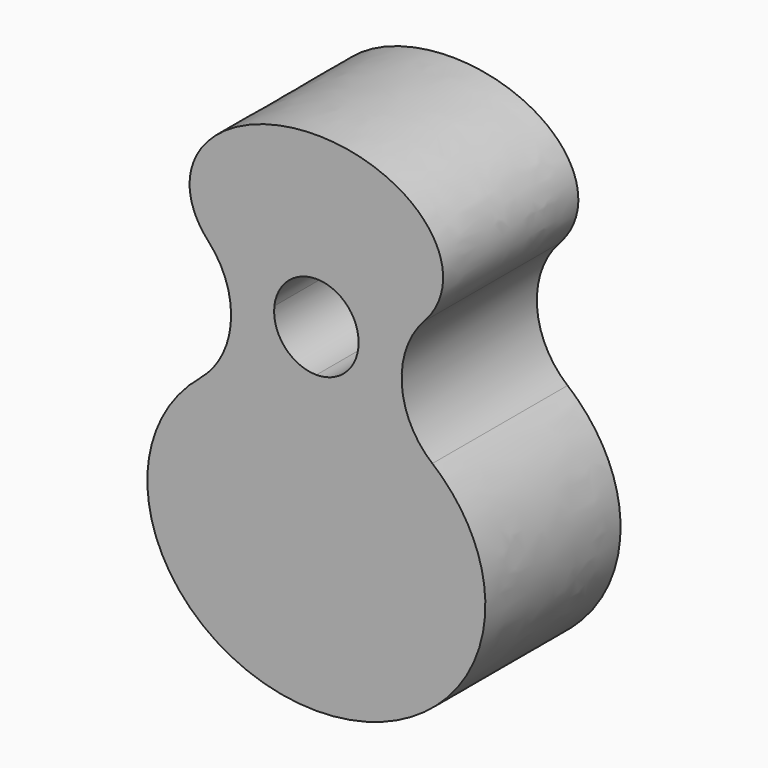
from build123d import *

# Parameters (mm, degrees)
F1_DEPTH = 25.4


with BuildPart() as f1:
    # F0 (on Front) → F1 (new body)
    with BuildSketch(Plane.XZ):
        with BuildLine():
            add(Edge.make_bspline(
                [(-17.4301057979, 38.3912356384), (-63.9378061659, 0), (0, 0)],
                knots=[2.3270822976, 2.3270822976, 2.3270822976, 4.7123889804, 4.7123889804, 4.7123889804], degree=2, weights=[1, 0.3691952871, 1]))
            Line((0, 0), (0, 22.225))
            Line((0, 22.225), (0, 44.45))
            add(Edge.make_bspline(
                [(6.1e-09, 44.45), (-10.0904306626, 44.4500000021), (-17.4301057979, 38.3912356384)],
                knots=[1.5707963266, 1.5707963266, 1.5707963266, 2.3270822976, 2.3270822976, 2.3270822976], degree=2, weights=[1, 0.9293518386, 1]))
        make_face()
        with BuildLine():
            Line((0, 22.225), (0, 0))
            add(Edge.make_bspline(
                [(0, 0), (25.4, 0), (25.4, 22.225)],
                knots=[4.7123889804, 4.7123889804, 4.7123889804, 6.2831853072, 6.2831853072, 6.2831853072], degree=2, weights=[1, 0.7071067812, 1]))
            Line((25.4, 22.225), (0, 22.225))
        make_face()
        with BuildLine():
            Line((0, 44.45), (0, 22.225))
            Line((0, 22.225), (25.4, 22.225))
            add(Edge.make_bspline(
                [(25.4, 22.225), (25.4, 31.8122372628), (17.4301057632, 38.3912356671)],
                knots=[0, 0, 0, 0.8145103579, 0.8145103579, 0.8145103579], degree=2, weights=[1, 0.9182114779, 1]))
            add(Edge.make_bspline(
                [(17.4301057632, 38.3912356671), (10.0904306401, 44.4499999979), (6.1e-09, 44.45)],
                knots=[0.8145103579, 0.8145103579, 0.8145103579, 1.5707963266, 1.5707963266, 1.5707963266], degree=2, weights=[1, 0.929351839, 1]))
        make_face()
        with BuildLine():
            ThreePointArc((6.35, 50.8), (4.4901280627, 46.3098719416), (6.1e-09, 44.45))
            add(Edge.make_bspline(
                [(17.4301057632, 38.3912356671), (10.0904306401, 44.4499999979), (6.1e-09, 44.45)],
                knots=[0.8145103579, 0.8145103579, 0.8145103579, 1.5707963266, 1.5707963266, 1.5707963266], degree=2, weights=[1, 0.929351839, 1]))
            ThreePointArc((17.4301057632, 38.3912356671), (12.8430246575, 47.3417341312), (16.2031337793, 56.8213123135))
            add(Edge.make_bspline(
                [(6.309414178, 51.5167933668), (12.6623858711, 53.0034490361), (16.2031337793, 56.8213123135)],
                knots=[5.0499670647, 5.0499670647, 5.0499670647, 5.7294348287, 5.7294348287, 5.7294348287], degree=2, weights=[1, 0.9428433791, 1]))
            ThreePointArc((6.309414178, 51.5167933668), (6.3398454252, 51.1589707299), (6.35, 50.8))
        make_face()
        with BuildLine():
            ThreePointArc((-12.8149736791, 48.185362008), (-14.0265485892, 42.7718521526), (-17.4301057979, 38.3912356384))
            add(Edge.make_bspline(
                [(6.1e-09, 44.45), (-10.0904306626, 44.4500000021), (-17.4301057979, 38.3912356384)],
                knots=[1.5707963266, 1.5707963266, 1.5707963266, 2.3270822976, 2.3270822976, 2.3270822976], degree=2, weights=[1, 0.9293518386, 1]))
            ThreePointArc((6.1e-09, 44.45), (-4.7367783271, 46.5708829433), (-6.309414178, 51.5167933668))
            add(Edge.make_bspline(
                [(-16.2031337888, 56.8213123238), (-12.6623858807, 53.0034490383), (-6.309414178, 51.5167933668)],
                knots=[3.6953431311, 3.6953431311, 3.6953431311, 4.3748108961, 4.3748108961, 4.3748108961], degree=2, weights=[1, 0.9428433789, 1]))
            ThreePointArc((-16.2031337888, 56.8213123238), (-13.6923181693, 52.823768706), (-12.8149736791, 48.185362008))
        make_face()
        with BuildLine():
            add(Edge.make_bspline(
                [(6.309414178, 51.5167933668), (12.6623858711, 53.0034490361), (16.2031337793, 56.8213123135)],
                knots=[5.0499670647, 5.0499670647, 5.0499670647, 5.7294348287, 5.7294348287, 5.7294348287], degree=2, weights=[1, 0.9428433791, 1]))
            add(Edge.make_bspline(
                [(16.2031337793, 56.8213123135), (19.05, 59.8909875013), (19.05, 63.5)],
                knots=[5.7294348287, 5.7294348287, 5.7294348287, 6.2831853072, 6.2831853072, 6.2831853072], degree=2, weights=[1, 0.9619142903, 1]))
            Line((19.05, 63.5), (0, 63.5))
            Line((0, 63.5), (0, 57.15))
            ThreePointArc((0, 57.15), (4.2291170545, 55.5367783292), (6.309414178, 51.5167933668))
        make_face()
        with BuildLine():
            add(Edge.make_bspline(
                [(19.05, 63.5), (19.05, 76.2), (0, 76.2)],
                knots=[0, 0, 0, 1.5707963268, 1.5707963268, 1.5707963268], degree=2, weights=[1, 0.7071067812, 1]))
            Line((0, 76.2), (0, 63.5))
            Line((0, 63.5), (19.05, 63.5))
        make_face()
        with BuildLine():
            add(Edge.make_bspline(
                [(0, 76.2), (-34.1752408864, 76.2), (-16.2031337888, 56.8213123238)],
                knots=[1.5707963268, 1.5707963268, 1.5707963268, 3.6953431311, 3.6953431311, 3.6953431311], degree=2, weights=[1, 0.4868876054, 1]))
            add(Edge.make_bspline(
                [(-16.2031337888, 56.8213123238), (-12.6623858807, 53.0034490383), (-6.309414178, 51.5167933668)],
                knots=[3.6953431311, 3.6953431311, 3.6953431311, 4.3748108961, 4.3748108961, 4.3748108961], degree=2, weights=[1, 0.9428433789, 1]))
            ThreePointArc((-6.309414178, 51.5167933668), (-4.2291170545, 55.5367783292), (0, 57.15))
            Line((0, 57.15), (0, 63.5))
            Line((0, 63.5), (0, 76.2))
        make_face()
    extrude(amount=F1_DEPTH)


solid = f1.part
